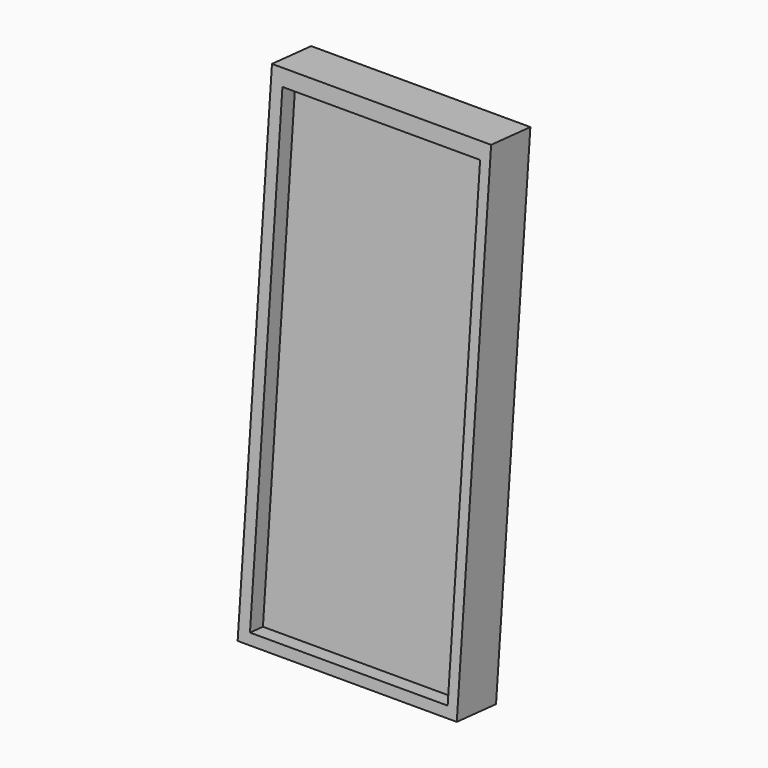
from build123d import *

# Parameters (mm, degrees)
F0_W      = 445
F0_H      = 100
F1_DEPTH  = 1000
F2_ANGLE  = -5
F3_ANGLE  = -120
F5_ANGLE  = -120
F8_ANGLE  = -120
F10_ANGLE = -120
F12_ANGLE = -120
F14_W     = 401.3673663139
F14_H     = 945.5828145146
F15_DEPTH = 33
F17_SCALE = 0.2


with BuildPart() as f1:
    # F0 (on Top) → F1 (new body)
    with BuildSketch(Plane.XY):
        with Locations((-164.5579262078, -35.3550005704)):
            Rectangle(F0_W, F0_H)
    extrude(amount=F1_DEPTH)


with BuildPart() as f1_1:
    # F2: moved
    add(f1.part.rotate(Axis((-164.5579262078, 14.6449994296, 0), (1, 0, 0)), F2_ANGLE))


with BuildPart() as f3_1:
    # F3: copy of F1
    add(f1_1.part.rotate(Axis((57.9420737922, -41.3965990058, 506.8129233206), (0, -0.0871557427, -0.9961946981)), F3_ANGLE))


with BuildPart() as f3_1_1:
    # F4: moved
    add(f3_1.part.moved(Location((87, 55, 0))))


with BuildPart() as f5_1:
    # F5: copy of F3_1
    add(f3_1_1.part.rotate(Axis((280.8395334138, -420.1211463803, 544.7589043088), (0, -0.0871557427, -0.9961946981)), F5_ANGLE))


with BuildPart() as f5_1_1:
    # F6: moved
    add(f5_1.part.moved(Location((91, -75, 0))))


with BuildPart() as f3_1_2:
    # F7: moved
    add(f3_1_1.part.moved(Location((13, -17, 0))))


with BuildPart() as f8_1:
    # F8: copy of F5_1
    add(f5_1_1.part.rotate(Axis((62.7369930353, -829.2262239457, 573.9893110223), (0, -0.0871557427, -0.9961946981)), F8_ANGLE))


with BuildPart() as f8_1_1:
    # F9: moved
    add(f8_1.part.moved(Location((-17, -111, 0))))


with BuildPart() as f10_1:
    # F10: copy of F8_1
    add(f8_1_1.part.rotate(Axis((-399.2630069647, -840.6067541365, 565.2737367476), (0, -0.0871557427, -0.9961946981)), F10_ANGLE))


with BuildPart() as f10_1_1:
    # F11: moved
    add(f10_1.part.moved(Location((-104, -42, 0))))


with BuildPart() as f12_1:
    # F12: copy of F10_1
    add(f10_1_1.part.rotate(Axis((-639.1604665862, -448.8822067619, 527.3277557595), (0, -0.0871557427, -0.9961946981)), F12_ANGLE))


with BuildPart() as f12_1_1:
    # F13: moved
    add(f12_1.part.moved(Location((-65, 57, 0))))


with BuildPart() as f1_2:
    add(f1_1.part)

    # F14 (on face) → F15 (cut)
    with BuildSketch(Plane(origin=(0, -85.0857156038, 7.4440355433), x_dir=(1, 0, 0), z_dir=(0, -0.9961946981, 0.0871557427))):
        with Locations((-162.8310680389, 495.9846995771)):
            Rectangle(F14_W, F14_H)
    extrude(amount=-F15_DEPTH, mode=Mode.SUBTRACT)


with BuildPart() as f1_3:
    # F17: moved
    add(f1_2.part.scale(F17_SCALE).moved(Location((-309.6463409662, -67.9795763037, 6.9724594198))))


solid = f1_3.part
